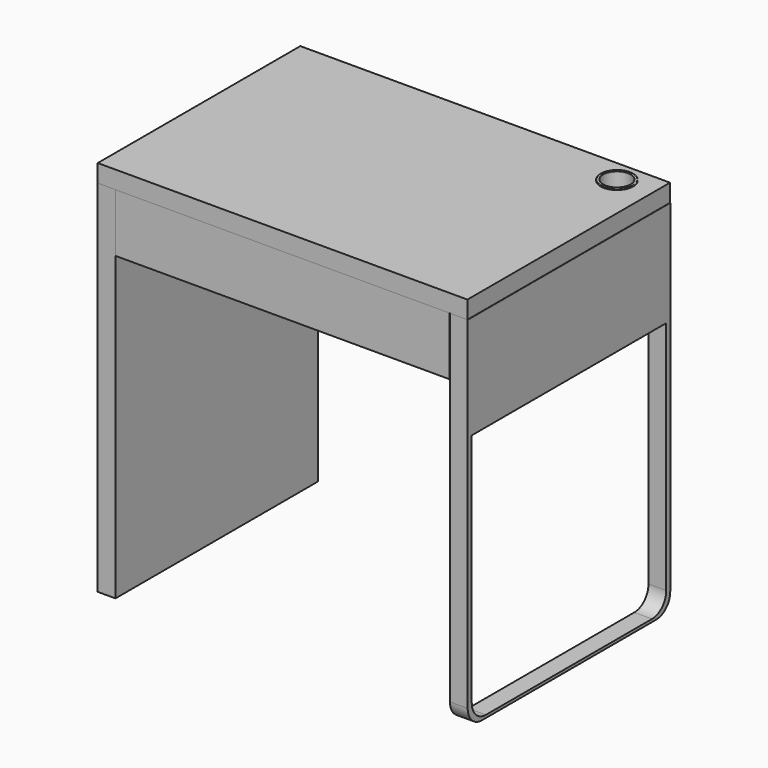
from build123d import *

# Parameters (mm, degrees)
SKETCH002_W      = 480
SKETCH002_H      = 500
EXTRUDE002_DEPTH = 50
FILLET001_R      = 35
SKETCH001_W      = 35
SKETCH001_H      = 500
EXTRUDE001_DEPTH = 710.5
FILLET_R         = 35
SKETCH003_W      = 660
SKETCH003_H      = 500
EXTRUDE003_DEPTH = 115
SKETCH004_R      = 27.455715
EXTRUDE004_DEPTH = 50
SKETCH_W         = 730
SKETCH_H         = 500
EXTRUDE_DEPTH    = 35
SKETCH005_R      = 32.118823
SKETCH005_R_2    = 27.137726
EXTRUDE005_DEPTH = 2
FILLET002_R      = 1


with BuildPart() as fillet001:
    # Sketch002 (on Fillet) → Extrude002 (new body)
    with BuildSketch(Plane.YZ.offset(608)):
        with Locations((0, -455)):
            Rectangle(SKETCH002_W, SKETCH002_H)
    extrude(amount=-EXTRUDE002_DEPTH)


with BuildPart() as fillet001_1:
    # Extrude002 placement: moved
    add(fillet001.part.moved(Location((-234, 0, 0))))

    # Fillet001
    fillet001_edges = [fillet001_1.edges().sort_by_distance(p)[0] for p in [
        (349, -240, -705),
        (349, 240, -705),
    ]]
    fillet(fillet001_edges, radius=FILLET001_R)


with BuildPart() as cut:
    # Sketch001 (on Sketch) → Extrude001 (new body)
    with BuildSketch(Plane.XY):
        with Locations((-347.5, 0)):
            Rectangle(SKETCH001_W, SKETCH001_H)
        with Locations((348, 0)):
            Rectangle(SKETCH001_W, SKETCH001_H)
    extrude(amount=-EXTRUDE001_DEPTH)

    # Fillet
    fillet_edges = [cut.edges().sort_by_distance(p)[0] for p in [
        (348, 250, -710.5),
        (348, -250, -710.5),
    ]]
    fillet(fillet_edges, radius=FILLET_R)

    # Cut: cut Fillet001
    add(fillet001_1.part, mode=Mode.SUBTRACT)


with BuildPart() as extrude003:
    # Sketch003 (on Extrude) → Extrude003 (new body)
    with BuildSketch(Plane.XY):
        Rectangle(SKETCH003_W, SKETCH003_H)
    extrude(amount=-EXTRUDE003_DEPTH)


with BuildPart() as extrude004:
    # Sketch004 (on Face6 of Extrude) → Extrude004 (new body)
    with BuildSketch(Plane.XY.offset(35)):
        with Locations((296.594958, 204.344476)):
            Circle(SKETCH004_R)
    extrude(amount=-EXTRUDE004_DEPTH)


with BuildPart() as cut001:
    # Sketch → Extrude (new body)
    with BuildSketch(Plane.XY):
        Rectangle(SKETCH_W, SKETCH_H)
    extrude(amount=EXTRUDE_DEPTH)

    # Cut001: cut Extrude004
    add(extrude004.part, mode=Mode.SUBTRACT)


with BuildPart() as fillet002:
    # Sketch005 (on Face5 of Cut001) → Extrude005 (new body)
    with BuildSketch(Plane.XY.offset(35)):
        with Locations((296.517395, 204.547883)):
            Circle(SKETCH005_R)
        with Locations((296.517395, 204.547883)):
            Circle(SKETCH005_R_2, mode=Mode.SUBTRACT)
    extrude(amount=EXTRUDE005_DEPTH)

    # Fillet002
    fillet002_edges = [fillet002.edges().sort_by_distance(p)[0] for p in [
        (264.398572, 204.547883, 37),
    ]]
    fillet(fillet002_edges, radius=FILLET002_R)


solid = Compound([cut.part, extrude003.part, cut001.part, fillet002.part])
